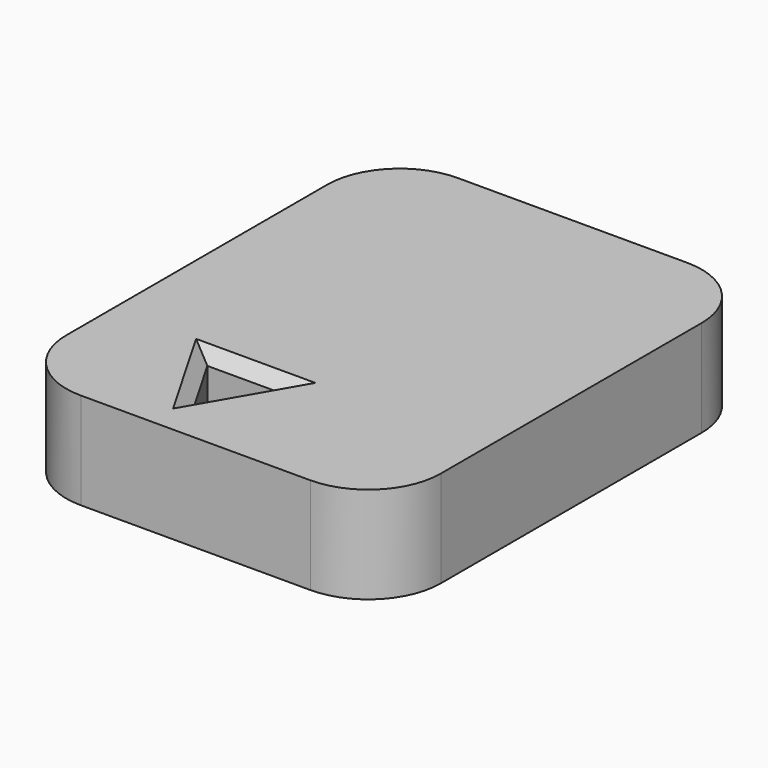
from build123d import *

# Parameters (mm, degrees)
F0_W     = 15.5
F0_H     = 19.5
F1_DEPTH = 4
F3_DEPTH = 4.001
F4_SIZE  = 0.5
F5_R     = 3


with BuildPart() as f1:
    # F0 (on Top) → F1 (new body)
    with BuildSketch(Plane.XY):
        with Locations((-7.75, 9.75)):
            Rectangle(F0_W, F0_H)
    extrude(amount=F1_DEPTH)

    # F2 (on Top) → F3 (cut, through all)
    with BuildSketch(Plane.XY):
        Polygon((-11.202147, 4.925), (-9.6, 2.15), (-7.997853, 4.925), align=None)
    extrude(amount=F3_DEPTH, mode=Mode.SUBTRACT)

    # F4
    f4_edges = [f1.edges().sort_by_distance(p)[0] for p in [
        (-9.6, 4.925, 4),
        (-10.401073, 3.5375, 4),
        (-8.798927, 3.5375, 4),
    ]]
    chamfer(f4_edges, length=F4_SIZE)

    # F5
    f5_edges = [f1.edges().sort_by_distance(p)[0] for p in [
        (-15.5, 0, 2),
        (0, 0, 2),
        (0, 19.5, 2),
        (-15.5, 19.5, 2),
    ]]
    fillet(f5_edges, radius=F5_R)


solid = f1.part
